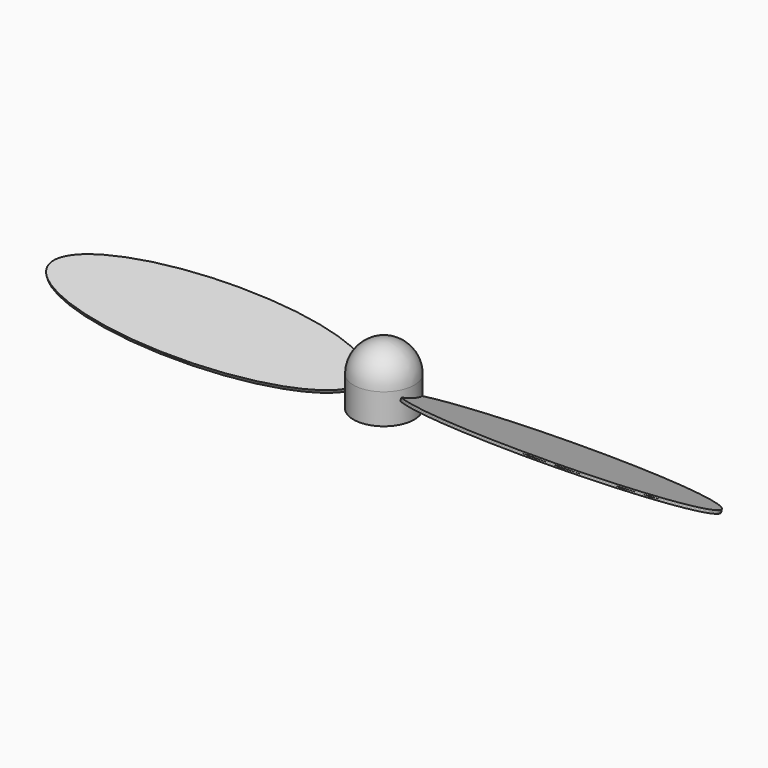
from build123d import *

# Parameters (mm, degrees)
F6_DEPTH = 0.125
F8_DEPTH = 0.125


with BuildPart() as f1:
    # F0 (on Front) → F1 (revolve)
    with BuildSketch(Plane.XZ):
        with BuildLine():
            Line((0, 5), (0, 4))
            Line((0, 4), (0.5, 4))
            Line((0.5, 4), (0.5, 0))
            Line((0.5, 0), (2.5, 0))
            Line((2.5, 0), (2.5, 2.5))
            ThreePointArc((2.5, 2.5), (1.767766953, 4.267766953), (0, 5))
        make_face()
    revolve(axis=Axis((0, 0, 2.5), (0, 0, 1)))

    # F5 (on face) → F6 (join, symmetric)
    with BuildSketch(Plane(origin=(0, -0.461767139, 1.2686947874), x_dir=(1, 0, 0), z_dir=(0, 0.3420201433, -0.9396926208))):
        with BuildLine():
            Line((-14.5, -3.9879612534), (-14.5, -0.4879612534))
            Line((-14.5, -0.4879612534), (-27.5, -0.4879612534))
            add(Edge.make_bspline(
                [(-27.5, -0.4879612534), (-27.5, -3.9879612534), (-14.5, -3.9879612534)],
                knots=[0, 0, 0, 1.5707963268, 1.5707963268, 1.5707963268], degree=2, weights=[1, 0.7071067812, 1]))
        make_face()
        with BuildLine():
            Line((-27.5, -0.4879612534), (-14.5, -0.4879612534))
            Line((-14.5, -0.4879612534), (-1.5, -0.4879612534))
            add(Edge.make_bspline(
                [(-1.5, -0.4879612534), (-1.5, 3.0120387466), (-14.5, 3.0120387466), (-27.5, 3.0120387466), (-27.5, -0.4879612534)],
                knots=[3.1415926536, 3.1415926536, 3.1415926536, 4.7123889804, 4.7123889804, 6.2831853072, 6.2831853072, 6.2831853072], degree=2, weights=[1, 0.7071067812, 1, 0.7071067812, 1]))
        make_face()
        with BuildLine():
            Line((-1.5, -0.4879612534), (-14.5, -0.4879612534))
            Line((-14.5, -0.4879612534), (-14.5, -3.9879612534))
            add(Edge.make_bspline(
                [(-14.5, -3.9879612534), (-1.5, -3.9879612534), (-1.5, -0.4879612534)],
                knots=[1.5707963268, 1.5707963268, 1.5707963268, 3.1415926536, 3.1415926536, 3.1415926536], degree=2, weights=[1, 0.7071067812, 1]))
        make_face()
    extrude(amount=F6_DEPTH, both=True)

    # F7 (on face) → F8 (join, symmetric)
    with BuildSketch(Plane(origin=(0, 0.461767139, 1.2686947874), x_dir=(1, 0, 0), z_dir=(0, -0.3420201433, -0.9396926208))):
        with BuildLine():
            Line((27.5, 0.4602281842), (14.5, 0.4602281842))
            Line((14.5, 0.4602281842), (1.5, 0.4602281842))
            add(Edge.make_bspline(
                [(1.5, 0.4602281842), (1.5, -3.0397718158), (14.5, -3.0397718158), (27.5, -3.0397718158), (27.5, 0.4602281842)],
                knots=[3.1415926536, 3.1415926536, 3.1415926536, 4.7123889804, 4.7123889804, 6.2831853072, 6.2831853072, 6.2831853072], degree=2, weights=[1, 0.7071067812, 1, 0.7071067812, 1]))
        make_face()
        with BuildLine():
            Line((1.5, 0.4602281842), (14.5, 0.4602281842))
            Line((14.5, 0.4602281842), (14.5, 3.9602281842))
            add(Edge.make_bspline(
                [(14.5, 3.9602281842), (1.5, 3.9602281842), (1.5, 0.4602281842)],
                knots=[1.5707963268, 1.5707963268, 1.5707963268, 3.1415926536, 3.1415926536, 3.1415926536], degree=2, weights=[1, 0.7071067812, 1]))
        make_face()
        with BuildLine():
            Line((14.5, 3.9602281842), (14.5, 0.4602281842))
            Line((14.5, 0.4602281842), (27.5, 0.4602281842))
            add(Edge.make_bspline(
                [(27.5, 0.4602281842), (27.5, 3.9602281842), (14.5, 3.9602281842)],
                knots=[0, 0, 0, 1.5707963268, 1.5707963268, 1.5707963268], degree=2, weights=[1, 0.7071067812, 1]))
        make_face()
    extrude(amount=F8_DEPTH, both=True)


solid = f1.part
